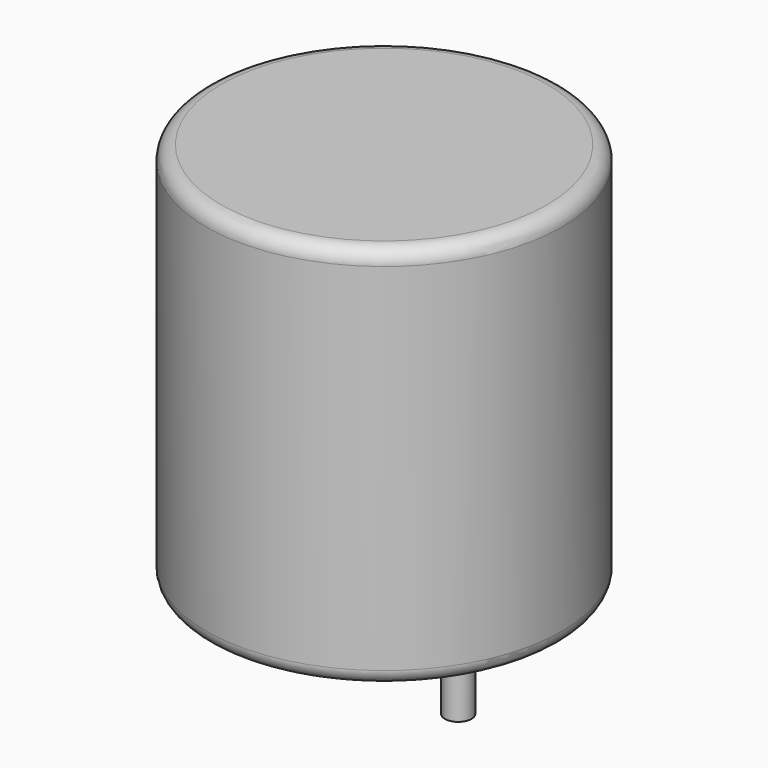
from build123d import *

# Parameters (mm, degrees)
SKETCH001_R       = 0.45
PAD001_DEPTH      = 6.5
PAD001_DEPTH_BACK = 3.5
SKETCH_R          = 6
PAD_DEPTH         = 13
FILLET_R          = 0.5


with BuildPart() as pad001:
    # Sketch001 → Pad001 (new body, two sides)
    with BuildSketch(Plane.XY.offset(0.5)) as pad001_sk:
        Circle(SKETCH001_R)
        with Locations((5, 0)):
            Circle(SKETCH001_R)
    extrude(amount=PAD001_DEPTH)
    extrude(pad001_sk.sketch, amount=-PAD001_DEPTH_BACK)


with BuildPart() as fillet_body:
    # Sketch → Pad (new body)
    with BuildSketch(Plane.XY.offset(0.1)):
        with Locations((2.5, 0)):
            Circle(SKETCH_R)
    extrude(amount=PAD_DEPTH)

    # Fillet
    fillet_edges = [fillet_body.edges().sort_by_distance(p)[0] for p in [
        (-3.5, 0, 0.1),
        (-3.5, 0, 13.1),
    ]]
    fillet(fillet_edges, radius=FILLET_R)


solid = Compound([pad001.part, fillet_body.part])
